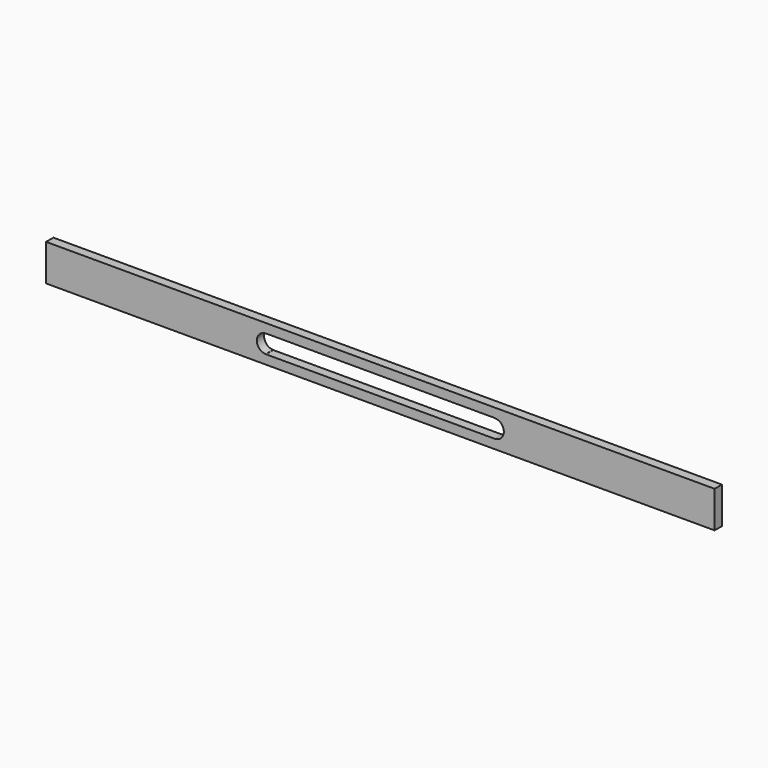
from build123d import *

# Parameters (mm, degrees)
F1_DEPTH = 10


with BuildPart() as f1:
    # F0 (on Front) → F1 (new body)
    with BuildSketch(Plane.XZ):
        Polygon((-365, -20), (365, -20), (365, -10), (125, -10), (-125, -10), (-365, -10), align=None)
        with BuildLine():
            Line((125, -10), (365, -10))
            Line((365, -10), (365, 10))
            Line((365, 10), (125, 10))
            Line((125, 10), (125, 9.858384))
            ThreePointArc((125, 9.858384), (131.97093, 6.97093), (134.858384, 0))
            ThreePointArc((134.858384, 0), (131.97093, -6.97093), (125, -9.858384))
            Line((125, -9.858384), (125, -10))
        make_face()
        with BuildLine():
            Line((-365, 10), (-365, -10))
            Line((-365, -10), (-125, -10))
            Line((-125, -10), (-125, -9.890202))
            ThreePointArc((-125, -9.890202), (-134.890202, 0), (-125, 9.890202))
            Line((-125, 9.890202), (-125, 10))
            Line((-125, 10), (-365, 10))
        make_face()
        Polygon((125, 10), (365, 10), (365, 20), (-365, 20), (-365, 10), (-125, 10), align=None)
    extrude(amount=F1_DEPTH)


solid = f1.part
